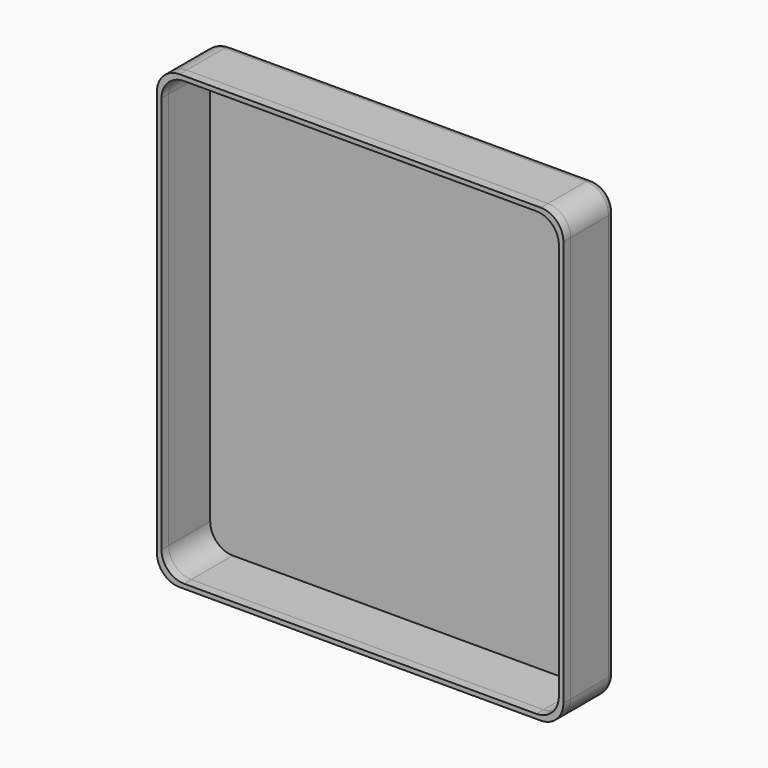
from build123d import *

# Parameters (mm, degrees)
F1_DEPTH = 31.75
F3_DEPTH = 2.54
F5_DEPTH = 5.08
F6_R     = 5.08


with BuildPart() as f1:
    # F0 (on Front) → F1 (new body)
    with BuildSketch(Plane.XZ):
        with BuildLine():
            Line((-101.6, -127), (101.6, -127))
            ThreePointArc((101.6, -127), (110.580256, -123.280256), (114.3, -114.3))
            Line((114.3, -114.3), (114.3, 114.3))
            ThreePointArc((114.3, 114.3), (110.580256, 123.280256), (101.6, 127))
            Line((101.6, 127), (-101.6, 127))
            ThreePointArc((-101.6, 127), (-110.580256, 123.280256), (-114.3, 114.3))
            Line((-114.3, 114.3), (-114.3, -114.3))
            ThreePointArc((-114.3, -114.3), (-110.580256, -123.280256), (-101.6, -127))
        make_face()
        with BuildLine():
            ThreePointArc((111.76, -111.76), (108.040256, -120.740256), (99.06, -124.46))
            Line((99.06, -124.46), (-99.06, -124.46))
            ThreePointArc((-99.06, -124.46), (-108.040256, -120.740256), (-111.76, -111.76))
            Line((-111.76, -111.76), (-111.76, 111.76))
            ThreePointArc((-111.76, 111.76), (-108.040256, 120.740256), (-99.06, 124.46))
            Line((-99.06, 124.46), (99.06, 124.46))
            ThreePointArc((99.06, 124.46), (108.040256, 120.740256), (111.76, 111.76))
            Line((111.76, 111.76), (111.76, -111.76))
        make_face(mode=Mode.SUBTRACT)
    extrude(amount=F1_DEPTH)

    # F2 (on Front) → F3 (join)
    with BuildSketch(Plane.XZ):
        with BuildLine():
            ThreePointArc((-114.3, -114.3), (-110.580256, -123.280256), (-101.6, -127))
            Line((-101.6, -127), (101.6, -127))
            ThreePointArc((101.6, -127), (110.580256, -123.280256), (114.3, -114.3))
            Line((114.3, -114.3), (114.3, 114.3))
            ThreePointArc((114.3, 114.3), (110.580256, 123.280256), (101.6, 127))
            Line((101.6, 127), (-101.6, 127))
            ThreePointArc((-101.6, 127), (-110.580256, 123.280256), (-114.3, 114.3))
            Line((-114.3, 114.3), (-114.3, -114.3))
        make_face()
    extrude(amount=F3_DEPTH)

    # F6
    f6_edges = [f1.edges().sort_by_distance(p)[0] for p in [
        (0, 0, -127),
        (110.580256, 0, -123.280256),
        (114.3, 0, 0),
        (110.580256, 0, 123.280256),
        (0, 0, 127),
        (-110.580256, 0, 123.280256),
        (-114.3, 0, 0),
        (-110.580256, 0, -123.280256),
    ]]
    fillet(f6_edges, radius=F6_R)


with BuildPart() as f5:
    # F4 (on face) → F5 (new body)
    with BuildSketch(Plane.XZ.offset(31.75)):
        with BuildLine():
            Line((-101.6, -127), (101.6, -127))
            ThreePointArc((101.6, -127), (110.580256, -123.280256), (114.3, -114.3))
            Line((114.3, -114.3), (114.3, 114.3))
            ThreePointArc((114.3, 114.3), (110.580256, 123.280256), (101.6, 127))
            Line((101.6, 127), (-101.6, 127))
            ThreePointArc((-101.6, 127), (-110.580256, 123.280256), (-114.3, 114.3))
            Line((-114.3, 114.3), (-114.3, -114.3))
            ThreePointArc((-114.3, -114.3), (-110.580256, -123.280256), (-101.6, -127))
        make_face()
        with BuildLine():
            ThreePointArc((111.76, -111.76), (108.040256, -120.740256), (99.06, -124.46))
            Line((99.06, -124.46), (-99.06, -124.46))
            ThreePointArc((-99.06, -124.46), (-108.040256, -120.740256), (-111.76, -111.76))
            Line((-111.76, -111.76), (-111.76, 111.76))
            ThreePointArc((-111.76, 111.76), (-108.040256, 120.740256), (-99.06, 124.46))
            Line((-99.06, 124.46), (99.06, 124.46))
            ThreePointArc((99.06, 124.46), (108.040256, 120.740256), (111.76, 111.76))
            Line((111.76, 111.76), (111.76, -111.76))
        make_face(mode=Mode.SUBTRACT)
    extrude(amount=F5_DEPTH)


solid = Compound([f1.part, f5.part])
